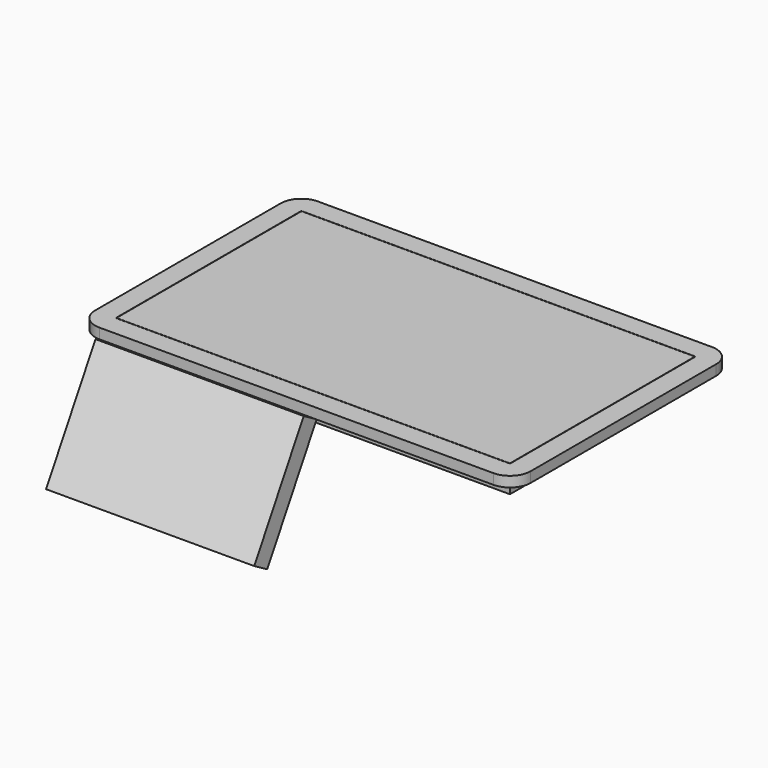
from build123d import *

# Parameters (mm, degrees)
F0_W     = 969.518
F0_H     = 569.722
F1_DEPTH = 67.056
F2_W     = 971.1055
F2_H     = 571.3095
F3_DEPTH = 25.4
F5_W     = 512.826
F5_H     = 304.292
F6_DEPTH = 46.228


with BuildPart() as f1:
    # F0 (on Top) → F1 (new body)
    with BuildSketch(Plane.XY):
        Rectangle(F0_W, F0_H)
    extrude(amount=-F1_DEPTH)


with BuildPart() as f3:
    # F2 (on Top) → F3 (new body)
    with BuildSketch(Plane.XY):
        with BuildLine():
            ThreePointArc((536.35275, 285.65475), (521.473774, 321.575774), (485.55275, 336.45475))
            Line((485.55275, 336.45475), (-485.55275, 336.45475))
            ThreePointArc((-485.55275, 336.45475), (-521.473774, 321.575774), (-536.35275, 285.65475))
            Line((-536.35275, 285.65475), (-536.35275, -285.65475))
            ThreePointArc((-536.35275, -285.65475), (-521.473774, -321.575774), (-485.55275, -336.45475))
            Line((-485.55275, -336.45475), (485.55275, -336.45475))
            ThreePointArc((485.55275, -336.45475), (521.473774, -321.575774), (536.35275, -285.65475))
            Line((536.35275, -285.65475), (536.35275, 285.65475))
        make_face()
        Rectangle(F2_W, F2_H, mode=Mode.SUBTRACT)
    extrude(amount=-F3_DEPTH)


with BuildPart() as f6:
    # F5 (on face) → F6 (new body)
    with BuildSketch(Plane(origin=(0, -252.341063, 145.68918), x_dir=(-1, 0, 0), z_dir=(0, 0.866025, -0.5))):
        with Locations((229.13975, -343.95792)):
            Rectangle(F5_W, F5_H)
    extrude(amount=F6_DEPTH)


solid = Compound([f1.part, f3.part, f6.part])
